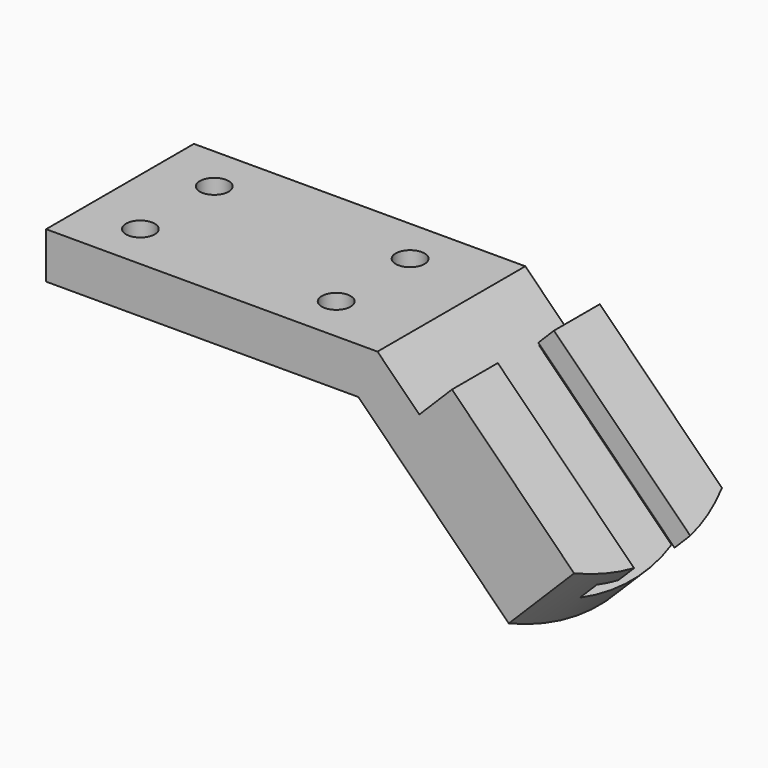
from build123d import *

# Parameters (mm, degrees)
F1_DEPTH = 25.4
F3_DEPTH = 134.5312752574
F5_DEPTH = 118.5292752574
F6_R     = 3.9624
F7_DEPTH = 58.5522699094


with BuildPart() as f1:
    # F0 (on Front) → F1 (new body, symmetric)
    with BuildSketch(Plane.XZ):
        Polygon((0, 12.7), (0, 0), (85.852, 0), (131.7032699094, -45.8512699094), (149.6637821515, -27.8907576672), (111.5874961982, 10.1855282861), (102.6072400771, 1.205272165), (91.1125122421, 12.7), align=None)
    extrude(amount=F1_DEPTH, both=True)

    # F2 (on face) → F3 (cut, through all)
    with BuildSketch(Plane(origin=(88.7772699094, 0, -88.7772699094), x_dir=(0, 1, 0), z_dir=(0.7071067812, 0, -0.7071067812))):
        Polygon((9.652, 86.1065313784), (-9.652, 86.1065313784), (-9.652, 80.0105313784), (-15.748, 80.0105313784), (-15.748, 73.4065313784), (15.748, 73.4065313784), (15.748, 80.0105313784), (9.652, 80.0105313784), align=None)
    extrude(amount=-F3_DEPTH, mode=Mode.SUBTRACT)

    # F4 (on face) → F5 (cut, through all)
    with BuildSketch(Plane(origin=(60.8865122421, 0, 60.8865122421), x_dir=(0.7071067812, 0, -0.7071067812), z_dir=(0.7071067812, 0, 0.7071067812))):
        with BuildLine():
            ThreePointArc((119.183037491, 25.4), (125.5500191363, 0), (119.183037491, -25.4))
            Line((119.183037491, -25.4), (119.183037491, -33.2152206612))
            Line((119.183037491, -33.2152206612), (139.840820311, -33.2152206612))
            Line((139.840820311, -33.2152206612), (139.840820311, 34.853566438))
            Line((139.840820311, 34.853566438), (119.183037491, 34.853566438))
            Line((119.183037491, 34.853566438), (119.183037491, 25.4))
        make_face()
    extrude(amount=-F5_DEPTH, mode=Mode.SUBTRACT)

    # F6 (on face) → F7 (cut, through all)
    with BuildSketch(Plane.XY.offset(12.7)):
        with Locations((15.748, 12.7)):
            Circle(F6_R)
        with Locations((15.748, -12.7)):
            Circle(F6_R)
        with Locations((69.596, -12.7)):
            Circle(F6_R)
        with Locations((69.596, 12.7)):
            Circle(F6_R)
    extrude(amount=-F7_DEPTH, mode=Mode.SUBTRACT)


solid = f1.part
